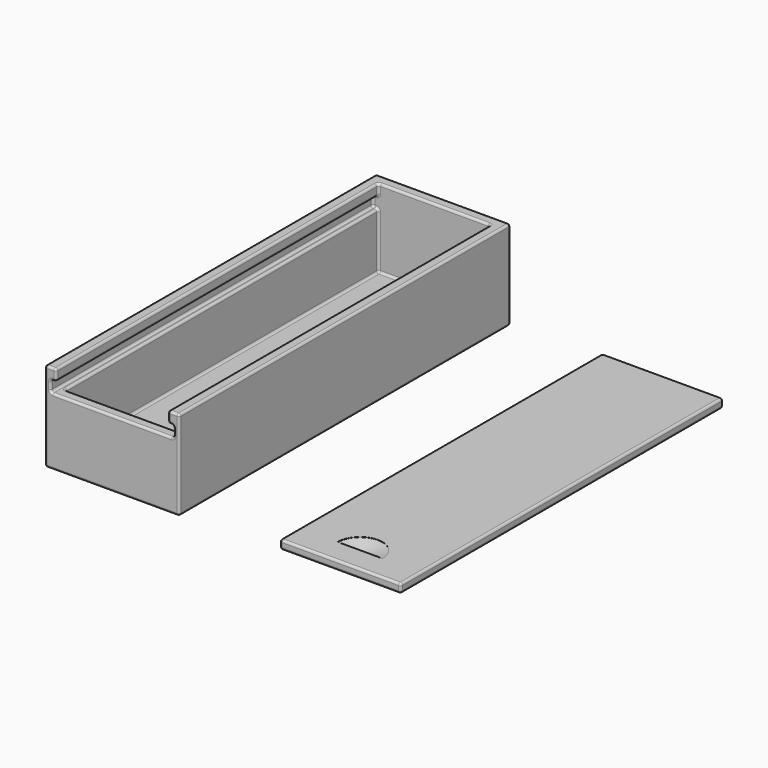
from build123d import *

# Parameters (mm, degrees)
SKETCH001_W     = 60
SKETCH001_H     = 185
PAD_DEPTH       = 40
SKETCH_W        = 50
SKETCH_H        = 175
POCKET_DEPTH    = 35
SKETCH008_W     = 50
SKETCH008_H     = 5
SKETCH008_W_2   = 55
POCKET005_DEPTH = 180
FILLET_R        = 1
SKETCH004_W     = 54
SKETCH004_H     = 180
PAD001_DEPTH    = 4
FILLET001_R     = 1
POCKET006_DEPTH = 2
CHAMFER_SIZE2   = 9
CHAMFER_SIZE    = 1.9


with BuildPart() as box:
    # Sketch001 → Pad (new body)
    with BuildSketch(Plane.XY):
        Rectangle(SKETCH001_W, SKETCH001_H)
    extrude(amount=PAD_DEPTH)

    # Sketch (on Face6 of Pad) → Pocket (cut)
    with BuildSketch(Plane.XY.offset(40)):
        Rectangle(SKETCH_W, SKETCH_H)
    extrude(amount=-POCKET_DEPTH, mode=Mode.SUBTRACT)

    # Sketch008 (on Face3 of Pocket) → Pocket005 (cut)
    with BuildSketch(Plane.XZ.offset(92.5)):
        with Locations((0, 37.5)):
            Rectangle(SKETCH008_W, SKETCH008_H)
        with Locations((0, 32.5)):
            Rectangle(SKETCH008_W_2, SKETCH008_H)
    extrude(amount=-POCKET005_DEPTH, mode=Mode.SUBTRACT)

    # Fillet
    fillet_edges = [box.edges().sort_by_distance(p)[0] for p in [
        (-30, 92.5, 20),
        (-30, -92.5, 20),
        (-30, 0, 0),
        (-30, 0, 40),
        (30, 92.5, 20),
        (0, 92.5, 0),
        (0, 92.5, 40),
        (0, -92.5, 0),
        (30, -92.5, 20),
        (27.5, -92.5, 40),
        (25, -92.5, 37.5),
        (26.25, -92.5, 35),
        (27.5, -92.5, 32.5),
        (0, -92.5, 30),
        (-27.5, -92.5, 32.5),
        (-26.25, -92.5, 35),
        (-25, -92.5, 37.5),
        (-27.5, -92.5, 40),
        (30, 0, 0),
        (30, 0, 40),
        (25, -2.5, 40),
        (0, 87.5, 40),
        (-25, -2.5, 40),
        (25, -2.5, 35),
        (26.25, 87.5, 35),
        (27.5, -2.5, 35),
        (27.5, 87.5, 32.5),
        (27.5, -2.5, 30),
        (26.25, 87.5, 30),
        (25, 0, 30),
        (0, -87.5, 30),
        (-25, 0, 30),
        (-26.25, 87.5, 30),
        (-27.5, -2.5, 30),
        (-27.5, 87.5, 32.5),
        (-27.5, -2.5, 35),
        (-26.25, 87.5, 35),
        (-25, -2.5, 35),
        (25, 87.5, 17.5),
        (25, 0, 5),
        (25, -87.5, 17.5),
        (0, -87.5, 5),
        (-25, -87.5, 17.5),
        (-25, 0, 5),
        (-25, 87.5, 17.5),
        (0, 87.5, 5),
        (25, 87.5, 37.5),
        (-25, 87.5, 37.5),
    ]]
    fillet(fillet_edges, radius=FILLET_R)


with BuildPart() as lid:
    # Sketch004 → Pad001 (new body)
    with BuildSketch(Plane.XY):
        with Locations((100, 0)):
            Rectangle(SKETCH004_W, SKETCH004_H)
    extrude(amount=PAD001_DEPTH)

    # Fillet001
    fillet001_edges = [lid.edges().sort_by_distance(p)[0] for p in [
        (73, 90, 2),
        (73, -90, 2),
        (73, 0, 0),
        (73, 0, 4),
        (127, -90, 2),
        (100, -90, 0),
        (100, -90, 4),
        (127, 90, 2),
        (127, 0, 0),
        (127, 0, 4),
        (100, 90, 0),
        (100, 90, 4),
    ]]
    fillet(fillet001_edges, radius=FILLET001_R)

    # Sketch009 (on Face11 of Fillet001) → Pocket006 (cut)
    with BuildSketch(Plane.XY.offset(4)):
        with BuildLine():
            ThreePointArc((110, -79), (100, -69), (90, -79))
            Line((90, -79), (110, -79))
        make_face()
    extrude(amount=-POCKET006_DEPTH, mode=Mode.SUBTRACT)

    # Chamfer
    chamfer_edges = [lid.edges().sort_by_distance(p)[0] for p in [
        (100, -69, 2),
    ]]
    chamfer_side = lid.faces().sort_by_distance((100, -69, 3))[0]
    chamfer(chamfer_edges, length=CHAMFER_SIZE, length2=CHAMFER_SIZE2, reference=chamfer_side)


solid = Compound([box.part, lid.part])
